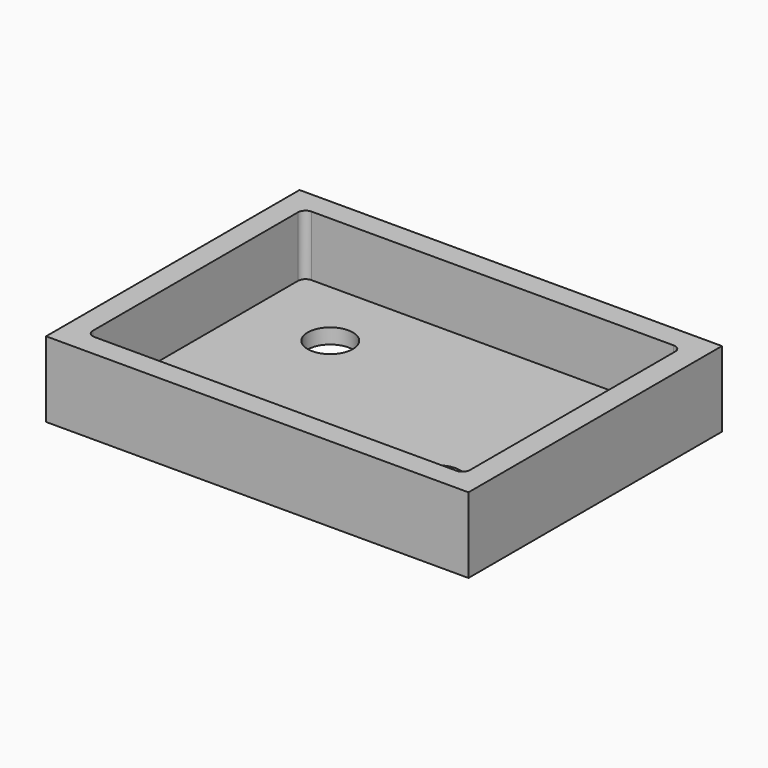
from build123d import *

# Parameters (mm, degrees)
SKETCH_W     = 56
SKETCH_H     = 42
PAD_DEPTH    = 10
SKETCH002_W  = 50
SKETCH002_H  = 36
POCKET_DEPTH = 8
FILLET_R     = 1
FILLET001_R  = 1
FILLET002_R  = 1
FILLET003_R  = 1
SKETCH003_R  = 3
HOLE_DEPTH   = 25


with BuildPart() as part:
    # Sketch → Pad (new body)
    with BuildSketch(Plane.XY):
        Rectangle(SKETCH_W, SKETCH_H)
    extrude(amount=PAD_DEPTH)

    # Sketch002 (on Face6 of Pad) → Pocket (cut)
    with BuildSketch(Plane.XY.offset(10)):
        Rectangle(SKETCH002_W, SKETCH002_H)
    extrude(amount=-POCKET_DEPTH, mode=Mode.SUBTRACT)

    # Fillet
    fillet_edges = [part.edges().sort_by_distance(p)[0] for p in [
        (-25, 18, 6),
    ]]
    fillet(fillet_edges, radius=FILLET_R)

    # Fillet001
    fillet001_edges = [part.edges().sort_by_distance(p)[0] for p in [
        (25, 18, 6),
    ]]
    fillet(fillet001_edges, radius=FILLET001_R)

    # Fillet002
    fillet002_edges = [part.edges().sort_by_distance(p)[0] for p in [
        (25, -18, 6),
    ]]
    fillet(fillet002_edges, radius=FILLET002_R)

    # Fillet003
    fillet003_edges = [part.edges().sort_by_distance(p)[0] for p in [
        (-25, -18, 6),
    ]]
    fillet(fillet003_edges, radius=FILLET003_R)

    # Sketch003 (on Face14 of Fillet003) → Hole (cut)
    with BuildSketch(Plane.XY.offset(2)):
        with Locations((-14, 8.6)):
            Circle(SKETCH003_R)
        with Locations((14, -8.6)):
            Circle(SKETCH003_R)
    extrude(amount=-HOLE_DEPTH, mode=Mode.SUBTRACT)


solid = part.part
